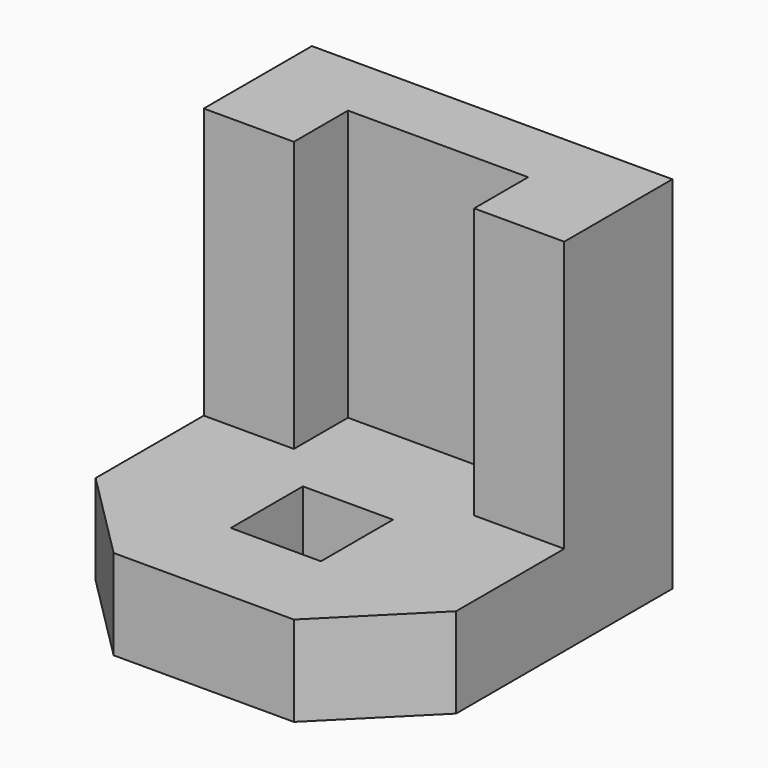
from build123d import *

# Parameters (mm, degrees)
F0_W     = 101.6
F0_H     = 101.6
F1_DEPTH = 101.6
F2_W     = 101.6
F2_H     = 76.2
F3_DEPTH = 63.5
F4_W     = 50.8
F4_H     = 19.05
F5_DEPTH = 76.2
F7_DEPTH = 25.4
F8_W     = 25.4
F8_H     = 25.4
F9_DEPTH = 25.4


with BuildPart() as f1:
    # F0 (on Front) → F1 (new body)
    with BuildSketch(Plane.XZ):
        with Locations((15.095475, -19.266974)):
            Rectangle(F0_W, F0_H)
    extrude(amount=F1_DEPTH)

    # F2 (on face) → F3 (cut)
    with BuildSketch(Plane.XZ.offset(101.6)):
        with Locations((15.095475, -6.566974)):
            Rectangle(F2_W, F2_H)
    extrude(amount=-F3_DEPTH, mode=Mode.SUBTRACT)

    # F4 (on face) → F5 (cut)
    with BuildSketch(Plane.XY.offset(31.533026)):
        with Locations((15.095475, -28.575)):
            Rectangle(F4_W, F4_H)
    extrude(amount=-F5_DEPTH, mode=Mode.SUBTRACT)

    # F6 (on face) → F7 (cut)
    with BuildSketch(Plane.XY.offset(-44.666974)):
        Polygon((-35.704525, -76.2), (-35.704525, -101.6), (-10.304525, -101.6), align=None)
        Polygon((65.895475, -76.2), (40.495475, -101.6), (65.895475, -101.6), align=None)
    extrude(amount=-F7_DEPTH, mode=Mode.SUBTRACT)

    # F8 (on face) → F9 (cut)
    with BuildSketch(Plane.XY.offset(-44.666974)):
        with Locations((15.095475, -63.5)):
            Rectangle(F8_W, F8_H)
    extrude(amount=-F9_DEPTH, mode=Mode.SUBTRACT)


solid = f1.part
